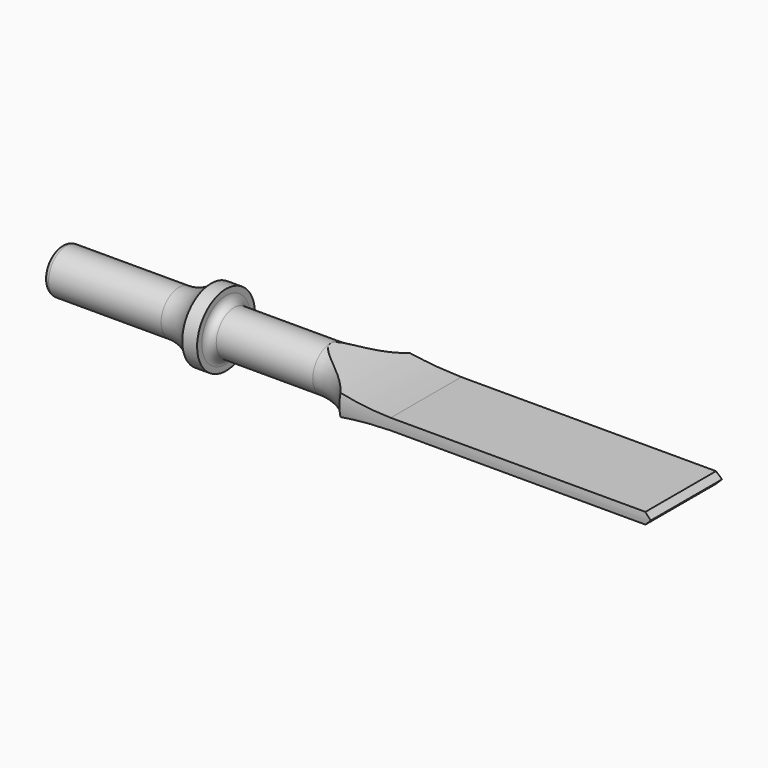
from build123d import *

# Parameters (mm, degrees)
F3_DEPTH = 25
F4_DEPTH = 25


with BuildPart() as f1:
    # F0 (on Front) → F1 (revolve)
    with BuildSketch(Plane.XZ):
        with BuildLine():
            Line((0, 1.9), (0, 0))
            Line((0, 0), (70.28609, 0))
            Line((70.28609, 0), (70.28609, 5))
            Line((70.28609, 5), (35.28609, 5))
            ThreePointArc((35.28609, 5), (33.081175, 3.15983), (30.28609, 2.5))
            Line((30.28609, 2.5), (19.44, 2.5))
            ThreePointArc((19.44, 2.5), (18.803604, 2.763604), (18.54, 3.4))
            Line((18.54, 3.4), (18.54, 4.06))
            Line((18.54, 4.06), (16.87, 4.06))
            ThreePointArc((16.87, 4.06), (15.216288, 2.906526), (13.241447, 2.5))
            Line((13.241447, 2.5), (0.6, 2.5))
            ThreePointArc((0.6, 2.5), (0.175736, 2.324264), (0, 1.9))
        make_face()
    revolve(axis=Axis((35.143045, 0, 0), (1, 0, 0)))

    # F2 (on Front) → F3 (cut)
    with BuildSketch(Plane.XZ):
        with BuildLine():
            ThreePointArc((30.28609, 2.5), (35.579623, 1.146564), (41.018965, 0.63))
            Line((41.018965, 0.63), (69.65609, 0.63))
            Line((69.65609, 0.63), (70.28609, 0))
            Line((70.28609, 0), (73.746532, 14.08634))
            Line((73.746532, 14.08634), (30.28609, 14.08634))
            Line((30.28609, 14.08634), (30.28609, 2.5))
        make_face()
        with BuildLine():
            Line((73.746532, -14.08634), (70.28609, 0))
            Line((70.28609, 0), (69.65609, -0.63))
            Line((69.65609, -0.63), (41.018965, -0.63))
            ThreePointArc((41.018965, -0.63), (35.579623, -1.146564), (30.28609, -2.5))
            Line((30.28609, -2.5), (30.28609, -14.08634))
            Line((30.28609, -14.08634), (73.746532, -14.08634))
        make_face()
    extrude(amount=-F3_DEPTH, mode=Mode.SUBTRACT)

    # F2 (on Front) → F4 (cut)
    with BuildSketch(Plane.XZ):
        with BuildLine():
            ThreePointArc((30.28609, 2.5), (35.579623, 1.146564), (41.018965, 0.63))
            Line((41.018965, 0.63), (69.65609, 0.63))
            Line((69.65609, 0.63), (70.28609, 0))
            Line((70.28609, 0), (73.746532, 14.08634))
            Line((73.746532, 14.08634), (30.28609, 14.08634))
            Line((30.28609, 14.08634), (30.28609, 2.5))
        make_face()
        with BuildLine():
            Line((73.746532, -14.08634), (70.28609, 0))
            Line((70.28609, 0), (69.65609, -0.63))
            Line((69.65609, -0.63), (41.018965, -0.63))
            ThreePointArc((41.018965, -0.63), (35.579623, -1.146564), (30.28609, -2.5))
            Line((30.28609, -2.5), (30.28609, -14.08634))
            Line((30.28609, -14.08634), (73.746532, -14.08634))
        make_face()
    extrude(amount=F4_DEPTH, mode=Mode.SUBTRACT)


solid = f1.part
